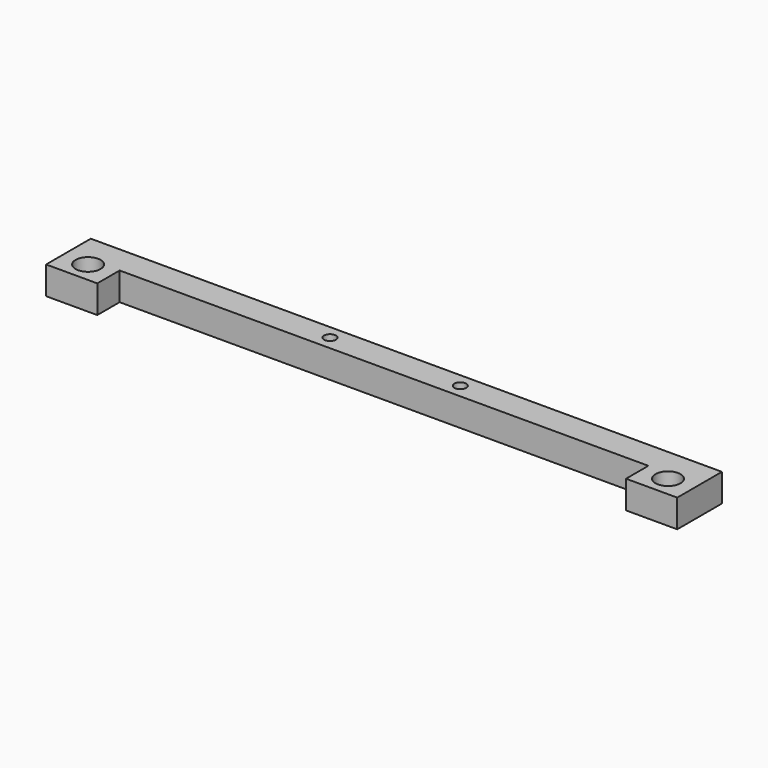
from build123d import *

# Parameters (mm, degrees)
PAD_DEPTH     = 3.81
SKETCH001_R   = 1.7
HOLE_DEPTH    = 24.892
SKETCH002_R   = 0.8
HOLE001_DEPTH = 24.892


with BuildPart() as part:
    # Sketch → Pad (new body)
    with BuildSketch(Plane.XY):
        Polygon((-43.053, 0), (-43.053, -7.62), (-36.068, -7.62), (-36.068, -3.81), (36.068, -3.81), (36.068, -7.62), (43.053, -7.62), (43.053, 0), align=None)
    extrude(amount=PAD_DEPTH)

    # Sketch001 (on Face10 of Pad) → Hole (cut)
    with BuildSketch(Plane.XY.offset(3.81)):
        with Locations((-39.5605, -4.826)):
            Circle(SKETCH001_R)
        with Locations((39.5605, -4.826)):
            Circle(SKETCH001_R)
    extrude(amount=-HOLE_DEPTH, mode=Mode.SUBTRACT)

    # Sketch002 (on Face5 of Hole) → Hole001 (cut)
    with BuildSketch(Plane.XY.offset(3.81)):
        with Locations((-8.89, -1.905)):
            Circle(SKETCH002_R)
        with Locations((8.89, -1.905)):
            Circle(SKETCH002_R)
    extrude(amount=-HOLE001_DEPTH, mode=Mode.SUBTRACT)


solid = part.part
